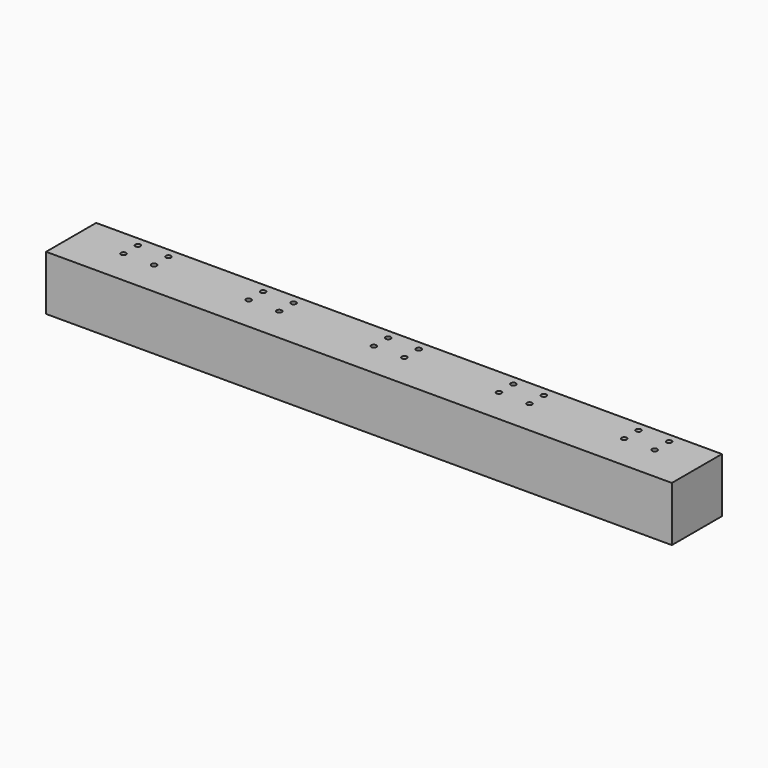
from build123d import *

# Parameters (mm, degrees)
F0_W     = 400
F0_H     = 40
F1_DEPTH = 35
F3_D     = 3.3
F3_DEPTH = 12
F3_TIP   = 0.9914200214
F5_D     = 4.2
F5_DEPTH = 15.9
F5_TIP   = 1.2618073


with BuildPart() as f1:
    # F0 (on Top) → F1 (new body)
    with BuildSketch(Plane.XY):
        with Locations((200, -20)):
            Rectangle(F0_W, F0_H)
    extrude(amount=F1_DEPTH)

    # F3
    with Locations(Plane.XY.offset(35)):
        with Locations((31.5, -6), (51, -6), (51, -17.5), (31.5, -17.5), (111.5, -6), (131, -6), (111.5, -17.5), (131, -17.5), (191.5, -6), (211, -6), (191.5, -17.5), (211, -17.5), (271.5, -6), (271.5, -17.5), (291, -6), (291, -17.5), (351.5, -6), (371, -6), (371, -17.5), (351.5, -17.5)):
            Hole(F3_D / 2, depth=F3_DEPTH)
            with Locations((0, 0, -(F3_DEPTH + F3_TIP / 2))):  # 118° drill point
                Cone(0, F3_D / 2, F3_TIP, mode=Mode.SUBTRACT)

    # F5
    with Locations(Plane(origin=(0, 0, 0), x_dir=(1, 0, 0), z_dir=(0, 0, -1))):
        with Locations((15, 20), (385, 20)):
            Hole(F5_D / 2, depth=F5_DEPTH)
            with Locations((0, 0, -(F5_DEPTH + F5_TIP / 2))):  # 118° drill point
                Cone(0, F5_D / 2, F5_TIP, mode=Mode.SUBTRACT)


solid = f1.part
